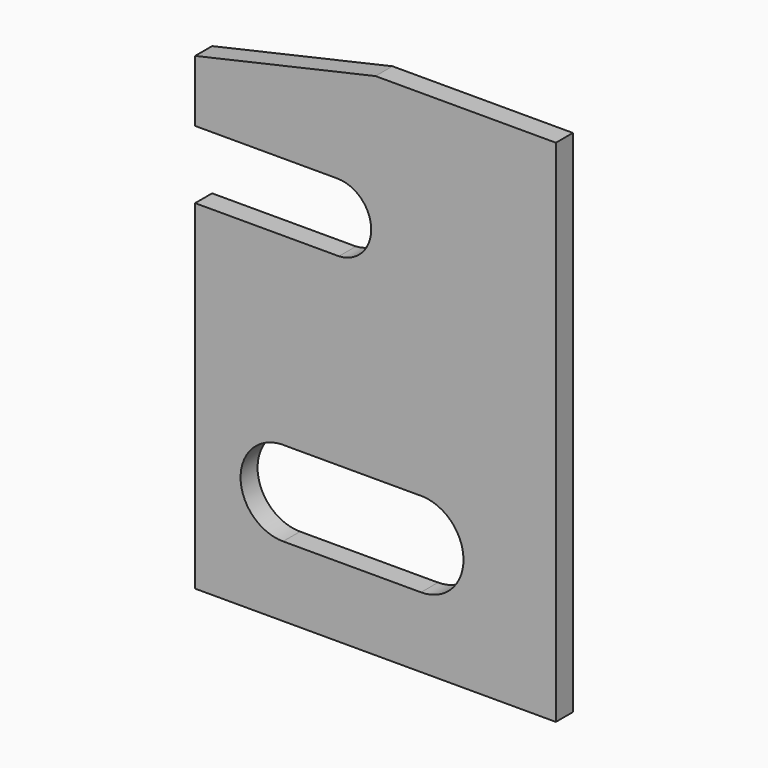
from build123d import *

# Parameters (mm, degrees)
F1_DEPTH = 5


with BuildPart() as f1:
    # F0 (on Front) → F1 (new body)
    with BuildSketch(Plane.XZ):
        with BuildLine():
            Line((42.171234, 58.710862), (-0.281595, 58.710862))
            Line((-0.281595, 58.710862), (-42.734423, 49.087327))
            Line((-42.734423, 49.087327), (-42.734423, 34.575482))
            Line((-42.734423, 34.575482), (-9.292091, 34.575482))
            ThreePointArc((-9.292091, 34.575482), (-1.294793, 26.774444), (-8.894291, 18.58539))
            ThreePointArc((-8.894291, 18.58539), (-9.292318, 18.575482), (-9.690346, 18.58539))
            Line((-9.690346, 18.58539), (-42.734423, 18.58539))
            Line((-42.734423, 18.58539), (-42.734423, -61.289138))
            Line((-42.734423, -61.289138), (42.171234, -61.289138))
            Line((42.171234, -61.289138), (42.171234, 58.710862))
        make_face()
        with BuildLine():
            ThreePointArc((-22.425222, -24.772513), (-22.036407, -24.764951), (-21.647591, -24.772513))
            Line((-21.647591, -24.772513), (10.033344, -24.772513))
            ThreePointArc((10.033344, -24.772513), (10.422159, -24.764951), (10.810975, -24.772513))
            ThreePointArc((10.810975, -24.772513), (20.420269, -34.959396), (10.422159, -44.764951))
            Line((10.422159, -44.764951), (-22.036407, -44.764951))
            ThreePointArc((-22.036407, -44.764951), (-32.034516, -34.959396), (-22.425222, -24.772513))
        make_face(mode=Mode.SUBTRACT)
        with BuildLine():
            ThreePointArc((-9.690346, 18.58539), (-9.292318, 18.575482), (-8.894291, 18.58539))
            Line((-8.894291, 18.58539), (-9.690346, 18.58539))
        make_face()
    extrude(amount=F1_DEPTH)


solid = f1.part
